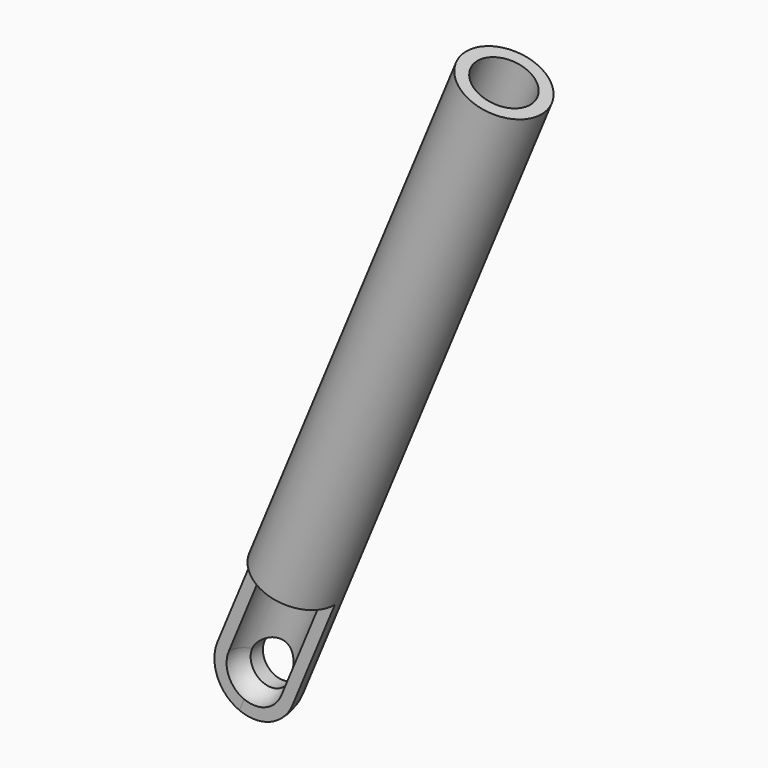
from build123d import *

# Parameters (mm, degrees)
F3_R     = 25
F4_DEPTH = 142.02346
F5_R     = 1675.475624
F5_R_2   = 1433.116866
F6_DEPTH = 100


with BuildPart() as f2:
    # F1 (on Front) → F2 (revolve)
    with BuildSketch(Plane.XZ):
        with BuildLine():
            Line((-326.189038, -696.030591), (-340.047231, -690.29034))
            Line((-340.047231, -690.29034), (-646.193977, -1429.393966))
            ThreePointArc((-646.193977, -1429.393966), (-646.193977, -1467.662309), (-619.134172, -1494.722114))
            Line((-619.134172, -1494.722114), (-613.39392, -1480.863921))
            ThreePointArc((-613.39392, -1480.863921), (-632.335784, -1461.922058), (-632.335784, -1435.134217))
            Line((-632.335784, -1435.134217), (-326.189038, -696.030591))
        make_face()
    revolve(axis=Axis((-300, 0, -724.264069), (-0.382683, 0, -0.92388)))

    # F3 (on Front) → F4 (cut, symmetric)
    with BuildSketch(Plane.XZ):
        with Locations((-600, -1448.528137)):
            Circle(F3_R)
    extrude(amount=F4_DEPTH, both=True, mode=Mode.SUBTRACT)

    # F5 (on Front) → F6 (cut)
    with BuildSketch(Plane.XZ):
        Circle(F5_R)
        Circle(F5_R_2, mode=Mode.SUBTRACT)
        Circle(F5_R)
        Circle(F5_R_2, mode=Mode.SUBTRACT)
    extrude(amount=F6_DEPTH, mode=Mode.SUBTRACT)


solid = f2.part
